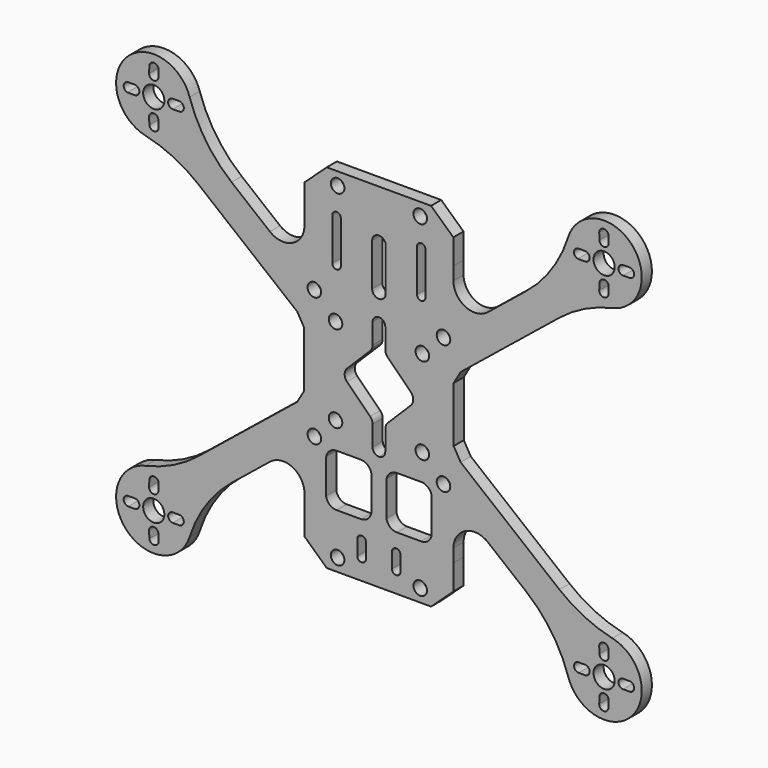
from build123d import *

# Parameters (mm, degrees)
F0_R     = 2.5
F0_R_2   = 1.6
F1_DEPTH = 3


with BuildPart() as f1:
    # F0 (on Front) → F1 (new body)
    with BuildSketch(Plane.XZ):
        with BuildLine():
            Line((-17.577814, 36.815152), (-17.577814, 30.864295))
            Line((-17.577814, 30.864295), (-17.594292, 27.784637))
            ThreePointArc((-17.594292, 27.784637), (-20.452199, 23.293455), (-25.738161, 23.923507))
            Line((-25.738161, 23.923507), (-34.786909, 31.240783))
            ThreePointArc((-34.786909, 31.240783), (-40.804112, 37.755057), (-44.7065, 45.718339))
            ThreePointArc((-44.7065, 45.718339), (-59.733801, 49.007245), (-55.140906, 34.325896))
            ThreePointArc((-55.140906, 34.325896), (-48.538649, 32.011546), (-42.632463, 28.261483))
            Line((-42.632463, 28.261483), (-19.306955, 9.399295))
            Line((-19.306955, 9.399295), (-17.649949, 6.5496))
            Line((-17.649949, 6.5496), (-17.649949, -6.5496))
            Line((-17.649949, -6.5496), (-19.306955, -9.399295))
            Line((-19.306955, -9.399295), (-42.632463, -28.261483))
            ThreePointArc((-42.632463, -28.261483), (-48.538649, -32.011546), (-55.140906, -34.325896))
            ThreePointArc((-55.140906, -34.325896), (-59.733801, -49.007245), (-44.7065, -45.718339))
            ThreePointArc((-44.7065, -45.718339), (-40.804112, -37.755057), (-34.786909, -31.240783))
            Line((-34.786909, -31.240783), (-25.738161, -23.923507))
            ThreePointArc((-25.738161, -23.923507), (-20.452199, -23.293455), (-17.594292, -27.784637))
            Line((-17.594292, -27.784637), (-17.577814, -30.864295))
            Line((-17.577814, -30.864295), (-17.577814, -36.815152))
            Line((-17.577814, -36.815152), (-12.31587, -41.659964))
            Line((-12.31587, -41.659964), (0, -41.659964))
            Line((0, -41.659964), (12.31587, -41.659964))
            Line((12.31587, -41.659964), (17.577814, -36.815152))
            Line((17.577814, -36.815152), (17.577814, -30.864295))
            Line((17.577814, -30.864295), (17.594292, -27.784637))
            ThreePointArc((17.594292, -27.784637), (20.452199, -23.293455), (25.738161, -23.923507))
            Line((25.738161, -23.923507), (34.786909, -31.240783))
            ThreePointArc((34.786909, -31.240783), (40.804112, -37.755057), (44.7065, -45.718339))
            ThreePointArc((44.7065, -45.718339), (59.733801, -49.007245), (55.140906, -34.325896))
            ThreePointArc((55.140906, -34.325896), (48.538649, -32.011546), (42.632463, -28.261483))
            Line((42.632463, -28.261483), (19.306955, -9.399295))
            Line((19.306955, -9.399295), (17.649949, -6.5496))
            Line((17.649949, -6.5496), (17.649949, 6.5496))
            Line((17.649949, 6.5496), (19.306955, 9.399295))
            Line((19.306955, 9.399295), (42.632463, 28.261483))
            ThreePointArc((42.632463, 28.261483), (48.538649, 32.011546), (55.140906, 34.325896))
            ThreePointArc((55.140906, 34.325896), (59.733801, 49.007245), (44.7065, 45.718339))
            ThreePointArc((44.7065, 45.718339), (40.804112, 37.755057), (34.786909, 31.240783))
            Line((34.786909, 31.240783), (25.738161, 23.923507))
            ThreePointArc((25.738161, 23.923507), (20.452199, 23.293455), (17.594292, 27.784637))
            Line((17.594292, 27.784637), (17.577814, 30.864295))
            Line((17.577814, 30.864295), (17.577814, 36.815152))
            Line((17.577814, 36.815152), (12.31587, 41.659964))
            Line((12.31587, 41.659964), (0, 41.659964))
            Line((0, 41.659964), (-12.31587, 41.659964))
            Line((-12.31587, 41.659964), (-17.577814, 36.815152))
        make_face()
        with BuildLine():
            Line((-52.075577, -47.464388), (-52.0255, -49.010395))
            ThreePointArc((-52.0255, -49.010395), (-53.027171, -50.12195), (-54.207013, -49.201694))
            Line((-54.207013, -49.201694), (-54.2741, -47.544494))
            ThreePointArc((-54.2741, -47.544494), (-53.215053, -46.400729), (-52.075577, -47.464388))
        make_face(mode=Mode.SUBTRACT)
        with BuildLine():
            ThreePointArc((-59.166645, -44.099968), (-60.269236, -43.112458), (-59.390551, -41.921326))
            Line((-59.390551, -41.921326), (-57.688728, -41.900086))
            ThreePointArc((-57.688728, -41.900086), (-56.575021, -42.993148), (-57.675023, -44.1))
            Line((-57.675023, -44.1), (-59.166645, -44.099968))
        make_face(mode=Mode.SUBTRACT)
        with Locations((-53.175, -43)):
            Circle(F0_R, mode=Mode.SUBTRACT)
        with BuildLine():
            ThreePointArc((-46.959449, -41.921326), (-46.080764, -43.112458), (-47.183355, -44.099968))
            Line((-47.183355, -44.099968), (-48.674977, -44.1))
            ThreePointArc((-48.674977, -44.1), (-49.774979, -42.993148), (-48.661272, -41.900086))
            Line((-48.661272, -41.900086), (-46.959449, -41.921326))
        make_face(mode=Mode.SUBTRACT)
        with BuildLine():
            ThreePointArc((-54.207013, -36.798306), (-53.027171, -35.87805), (-52.0255, -36.989605))
            Line((-52.0255, -36.989605), (-52.075577, -38.535612))
            ThreePointArc((-52.075577, -38.535612), (-53.215053, -39.599271), (-54.2741, -38.455506))
            Line((-54.2741, -38.455506), (-54.207013, -36.798306))
        make_face(mode=Mode.SUBTRACT)
        with Locations((-9.75, -38.65)):
            Circle(F0_R_2, mode=Mode.SUBTRACT)
        with BuildLine():
            ThreePointArc((-5.104633, -33.223683), (-4.81174, -32.516576), (-4.104633, -32.223683))
            Line((-4.104633, -32.223683), (-4.072801, -32.223683))
            ThreePointArc((-4.072801, -32.223683), (-3.365694, -32.516576), (-3.072801, -33.223683))
            Line((-3.072801, -33.223683), (-3.072801, -36.808552))
            ThreePointArc((-3.072801, -36.808552), (-3.365694, -37.515659), (-4.072801, -37.808552))
            Line((-4.072801, -37.808552), (-4.104633, -37.808552))
            ThreePointArc((-4.104633, -37.808552), (-4.81174, -37.515659), (-5.104633, -36.808552))
            Line((-5.104633, -36.808552), (-5.104633, -33.223683))
        make_face(mode=Mode.SUBTRACT)
        with BuildLine():
            ThreePointArc((-12.459755, -18.560569), (-11.602041, -17.088106), (-10, -16.507341))
            Line((-10, -16.507341), (-4.291286, -16.507341))
            ThreePointArc((-4.291286, -16.507341), (-2.663862, -17.074601), (-1.790245, -18.560228))
            Line((-1.790245, -18.560228), (-1.790245, -26.808539))
            ThreePointArc((-1.790245, -26.808539), (-2.647959, -28.281003), (-4.25, -28.861767))
            Line((-4.25, -28.861767), (-10, -28.862108))
            ThreePointArc((-10, -28.862108), (-11.602041, -28.281343), (-12.459755, -26.80888))
            Line((-12.459755, -26.80888), (-12.459755, -18.560569))
        make_face(mode=Mode.SUBTRACT)
        with Locations((-15.25, -15.25)):
            Circle(F0_R_2, mode=Mode.SUBTRACT)
        with Locations((-10.25, -10.25)):
            Circle(F0_R_2, mode=Mode.SUBTRACT)
        with BuildLine():
            Line((4.072801, -32.223683), (4.104633, -32.223683))
            ThreePointArc((4.104633, -32.223683), (4.81174, -32.516576), (5.104633, -33.223683))
            Line((5.104633, -33.223683), (5.104633, -36.808552))
            ThreePointArc((5.104633, -36.808552), (4.81174, -37.515659), (4.104633, -37.808552))
            Line((4.104633, -37.808552), (4.072801, -37.808552))
            ThreePointArc((4.072801, -37.808552), (3.365694, -37.515659), (3.072801, -36.808552))
            Line((3.072801, -36.808552), (3.072801, -33.223683))
            ThreePointArc((3.072801, -33.223683), (3.365694, -32.516576), (4.072801, -32.223683))
        make_face(mode=Mode.SUBTRACT)
        with Locations((9.75, -38.65)):
            Circle(F0_R_2, mode=Mode.SUBTRACT)
        with BuildLine():
            ThreePointArc((54.207013, -49.201694), (53.027171, -50.12195), (52.0255, -49.010395))
            Line((52.0255, -49.010395), (52.075577, -47.464388))
            ThreePointArc((52.075577, -47.464388), (53.215053, -46.400729), (54.2741, -47.544494))
            Line((54.2741, -47.544494), (54.207013, -49.201694))
        make_face(mode=Mode.SUBTRACT)
        with BuildLine():
            Line((48.674977, -44.1), (47.183355, -44.099968))
            ThreePointArc((47.183355, -44.099968), (46.080764, -43.112458), (46.959449, -41.921326))
            Line((46.959449, -41.921326), (48.661272, -41.900086))
            ThreePointArc((48.661272, -41.900086), (49.774979, -42.993148), (48.674977, -44.1))
        make_face(mode=Mode.SUBTRACT)
        with Locations((53.175, -43)):
            Circle(F0_R, mode=Mode.SUBTRACT)
        with BuildLine():
            ThreePointArc((57.675023, -44.1), (56.575021, -42.993148), (57.688728, -41.900086))
            Line((57.688728, -41.900086), (59.390551, -41.921326))
            ThreePointArc((59.390551, -41.921326), (60.269236, -43.112458), (59.166645, -44.099968))
            Line((59.166645, -44.099968), (57.675023, -44.1))
        make_face(mode=Mode.SUBTRACT)
        with BuildLine():
            Line((54.207013, -36.798306), (54.2741, -38.455506))
            ThreePointArc((54.2741, -38.455506), (53.215053, -39.599271), (52.075577, -38.535612))
            Line((52.075577, -38.535612), (52.0255, -36.989605))
            ThreePointArc((52.0255, -36.989605), (53.027171, -35.87805), (54.207013, -36.798306))
        make_face(mode=Mode.SUBTRACT)
        with BuildLine():
            Line((4.25, -16.507), (10, -16.507341))
            ThreePointArc((10, -16.507341), (11.602041, -17.088106), (12.459755, -18.560569))
            Line((12.459755, -18.560569), (12.459755, -26.80888))
            ThreePointArc((12.459755, -26.80888), (11.586138, -28.294507), (9.958714, -28.861767))
            Line((9.958714, -28.861767), (4.25, -28.861767))
            ThreePointArc((4.25, -28.861767), (2.647959, -28.281003), (1.790245, -26.808539))
            Line((1.790245, -26.808539), (1.790245, -18.560228))
            ThreePointArc((1.790245, -18.560228), (2.647959, -17.087765), (4.25, -16.507))
        make_face(mode=Mode.SUBTRACT)
        with Locations((15.25, -15.25)):
            Circle(F0_R_2, mode=Mode.SUBTRACT)
        with Locations((10.25, -10.25)):
            Circle(F0_R_2, mode=Mode.SUBTRACT)
        with Locations((-10.25, 10.25)):
            Circle(F0_R_2, mode=Mode.SUBTRACT)
        with Locations((-15.25, 15.25)):
            Circle(F0_R_2, mode=Mode.SUBTRACT)
        with BuildLine():
            Line((-52.075577, 38.535612), (-52.0255, 36.989605))
            ThreePointArc((-52.0255, 36.989605), (-53.027171, 35.87805), (-54.207013, 36.798306))
            Line((-54.207013, 36.798306), (-54.2741, 38.455506))
            ThreePointArc((-54.2741, 38.455506), (-53.215053, 39.599271), (-52.075577, 38.535612))
        make_face(mode=Mode.SUBTRACT)
        with BuildLine():
            ThreePointArc((-57.675023, 44.1), (-56.575021, 42.993148), (-57.688728, 41.900086))
            Line((-57.688728, 41.900086), (-59.390551, 41.921326))
            ThreePointArc((-59.390551, 41.921326), (-60.269236, 43.112458), (-59.166645, 44.099968))
            Line((-59.166645, 44.099968), (-57.675023, 44.1))
        make_face(mode=Mode.SUBTRACT)
        with Locations((-53.175, 43)):
            Circle(F0_R, mode=Mode.SUBTRACT)
        with BuildLine():
            Line((-48.674977, 44.1), (-47.183355, 44.099968))
            ThreePointArc((-47.183355, 44.099968), (-46.080764, 43.112458), (-46.959449, 41.921326))
            Line((-46.959449, 41.921326), (-48.661272, 41.900086))
            ThreePointArc((-48.661272, 41.900086), (-49.774979, 42.993148), (-48.674977, 44.1))
        make_face(mode=Mode.SUBTRACT)
        with BuildLine():
            ThreePointArc((-52.075577, 47.464388), (-53.215053, 46.400729), (-54.2741, 47.544494))
            Line((-54.2741, 47.544494), (-54.207013, 49.201694))
            ThreePointArc((-54.207013, 49.201694), (-53.027171, 50.12195), (-52.0255, 49.010395))
            Line((-52.0255, 49.010395), (-52.075577, 47.464388))
        make_face(mode=Mode.SUBTRACT)
        with BuildLine():
            Line((-11, 22.15), (-11, 32.15))
            ThreePointArc((-11, 32.15), (-10.707107, 32.857107), (-10, 33.15))
            ThreePointArc((-10, 33.15), (-9.292893, 32.857107), (-9, 32.15))
            Line((-9, 32.15), (-9, 22.15))
            ThreePointArc((-9, 22.15), (-9.292893, 21.442893), (-10, 21.15))
            ThreePointArc((-10, 21.15), (-10.707107, 21.442893), (-11, 22.15))
        make_face(mode=Mode.SUBTRACT)
        with Locations((-9.75, 38.65)):
            Circle(F0_R_2, mode=Mode.SUBTRACT)
        with BuildLine():
            ThreePointArc((-1.5, 13), (-1.06066, 14.06066), (0, 14.5))
            ThreePointArc((0, 14.5), (1.06066, 14.06066), (1.5, 13))
            Line((1.5, 13), (1.5, 11.279701))
            Line((1.5, 11.279701), (1.5, 11.269186))
            Line((1.5, 11.269186), (1.5, 11.165519))
            Line((1.5, 11.165519), (1.5, 11.061619))
            Line((1.5, 11.061619), (1.5, 8.22343))
            ThreePointArc((1.5, 8.22343), (1.65318, 7.455799), (2.089257, 6.805755))
            Line((2.089257, 6.805755), (7.540835, 1.380834))
            ThreePointArc((7.540835, 1.380834), (8.092469, 0), (7.540835, -1.380834))
            Line((7.540835, -1.380834), (2.089257, -6.805755))
            ThreePointArc((2.089257, -6.805755), (1.65318, -7.455799), (1.5, -8.22343))
            Line((1.5, -8.22343), (1.5, -11.655222))
            Line((1.5, -11.655222), (1.5, -13))
            ThreePointArc((1.5, -13), (1.06066, -14.06066), (0, -14.5))
            ThreePointArc((0, -14.5), (-1.06066, -14.06066), (-1.5, -13))
            Line((-1.5, -13), (-1.5, -11.655222))
            Line((-1.5, -11.655222), (-1.5, -8.22343))
            ThreePointArc((-1.5, -8.22343), (-1.65318, -7.455799), (-2.089257, -6.805755))
            Line((-2.089257, -6.805755), (-7.540835, -1.380834))
            ThreePointArc((-7.540835, -1.380834), (-8.092469, 0), (-7.540835, 1.380834))
            Line((-7.540835, 1.380834), (-2.089257, 6.805755))
            ThreePointArc((-2.089257, 6.805755), (-1.65318, 7.455799), (-1.5, 8.22343))
            Line((-1.5, 8.22343), (-1.5, 11.165519))
            Line((-1.5, 11.165519), (-1.5, 11.279701))
            Line((-1.5, 11.279701), (-1.5, 13))
        make_face(mode=Mode.SUBTRACT)
        with Locations((10.25, 10.25)):
            Circle(F0_R_2, mode=Mode.SUBTRACT)
        with Locations((15.25, 15.25)):
            Circle(F0_R_2, mode=Mode.SUBTRACT)
        with BuildLine():
            ThreePointArc((-1.6, 29.9), (0, 31.5), (1.6, 29.9))
            Line((1.6, 29.9), (1.6, 19.9))
            ThreePointArc((1.6, 19.9), (0, 18.3), (-1.6, 19.9))
            Line((-1.6, 19.9), (-1.6, 29.9))
        make_face(mode=Mode.SUBTRACT)
        with BuildLine():
            Line((11, 32.15), (11, 22.15))
            ThreePointArc((11, 22.15), (10.707107, 21.442893), (10, 21.15))
            ThreePointArc((10, 21.15), (9.292893, 21.442893), (9, 22.15))
            Line((9, 22.15), (9, 32.15))
            ThreePointArc((9, 32.15), (9.292893, 32.857107), (10, 33.15))
            ThreePointArc((10, 33.15), (10.707107, 32.857107), (11, 32.15))
        make_face(mode=Mode.SUBTRACT)
        with Locations((9.75, 38.65)):
            Circle(F0_R_2, mode=Mode.SUBTRACT)
        with BuildLine():
            ThreePointArc((54.207013, 36.798306), (53.027171, 35.87805), (52.0255, 36.989605))
            Line((52.0255, 36.989605), (52.075577, 38.535612))
            ThreePointArc((52.075577, 38.535612), (53.215053, 39.599271), (54.2741, 38.455506))
            Line((54.2741, 38.455506), (54.207013, 36.798306))
        make_face(mode=Mode.SUBTRACT)
        with BuildLine():
            ThreePointArc((46.959449, 41.921326), (46.080764, 43.112458), (47.183355, 44.099968))
            Line((47.183355, 44.099968), (48.674977, 44.1))
            ThreePointArc((48.674977, 44.1), (49.774979, 42.993148), (48.661272, 41.900086))
            Line((48.661272, 41.900086), (46.959449, 41.921326))
        make_face(mode=Mode.SUBTRACT)
        with Locations((53.175, 43)):
            Circle(F0_R, mode=Mode.SUBTRACT)
        with BuildLine():
            Line((57.675023, 44.1), (59.166645, 44.099968))
            ThreePointArc((59.166645, 44.099968), (60.269236, 43.112458), (59.390551, 41.921326))
            Line((59.390551, 41.921326), (57.688728, 41.900086))
            ThreePointArc((57.688728, 41.900086), (56.575021, 42.993148), (57.675023, 44.1))
        make_face(mode=Mode.SUBTRACT)
        with BuildLine():
            ThreePointArc((52.0255, 49.010395), (53.027171, 50.12195), (54.207013, 49.201694))
            Line((54.207013, 49.201694), (54.2741, 47.544494))
            ThreePointArc((54.2741, 47.544494), (53.215053, 46.400729), (52.075577, 47.464388))
            Line((52.075577, 47.464388), (52.0255, 49.010395))
        make_face(mode=Mode.SUBTRACT)
    extrude(amount=F1_DEPTH)


solid = f1.part
